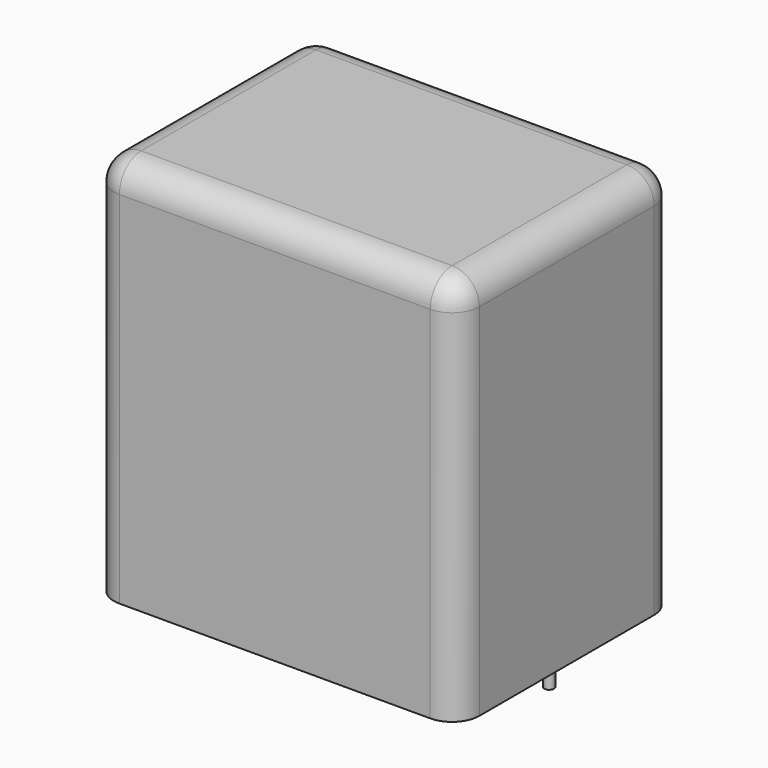
from build123d import *

# Parameters (mm, degrees)
SKETCH_W     = 41.5
SKETCH_H     = 31
PAD_DEPTH    = 44
FILLET_R     = 3.1
SKETCH001_R  = 0.55
PAD001_DEPTH = 3.2


with BuildPart() as fillet_body:
    # Sketch → Pad (new body)
    with BuildSketch(Plane.XY.offset(0.1)):
        with Locations((18.75, 0)):
            Rectangle(SKETCH_W, SKETCH_H)
    extrude(amount=PAD_DEPTH)

    # Fillet
    fillet_edges = [fillet_body.edges().sort_by_distance(p)[0] for p in [
        (-2, 0, 44.1),
        (-2, -15.5, 22.1),
        (18.75, -15.5, 44.1),
        (39.5, -15.5, 22.1),
        (39.5, 0, 44.1),
        (39.5, 15.5, 22.1),
        (18.75, 15.5, 44.1),
        (-2, 15.5, 22.1),
    ]]
    fillet(fillet_edges, radius=FILLET_R)


with BuildPart() as pad001:
    # Sketch001 → Pad001 (new body)
    with BuildSketch(Plane.XY.offset(0.5)):
        Circle(SKETCH001_R)
        with Locations((37.5, 0)):
            Circle(SKETCH001_R)
    extrude(amount=-PAD001_DEPTH)


solid = Compound([fillet_body.part, pad001.part])
